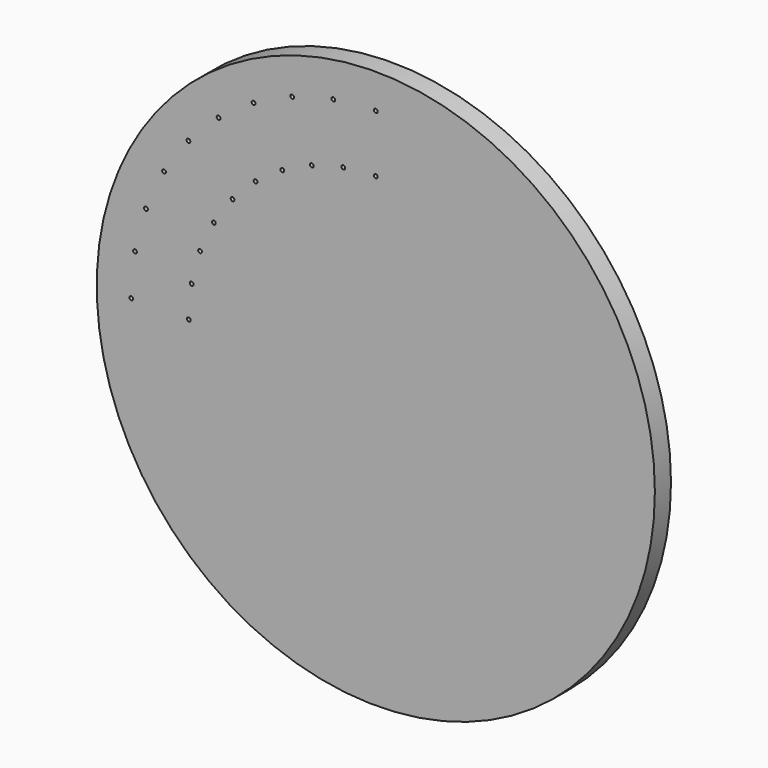
from build123d import *

# Parameters (mm, degrees)
F0_R     = 485
F1_DEPTH = 35
F2_D     = 6.6
F2_DEPTH = 19.75
F2_TIP   = 1.9828400428


with BuildPart() as f1:
    # F0 (on Front) → F1 (new body)
    with BuildSketch(Plane.XZ):
        Circle(F0_R)
    extrude(amount=-F1_DEPTH)

    # F2
    with Locations(Plane.XZ):
        with Locations((-325, 0), (-320.062519729, 56.4356577418), (-305.4001017554, 111.1565465808), (-281.4582562299, 162.5), (-248.9644440137, 208.9059731481), (-208.9059731481, 248.9644440137), (-162.5, 281.4582562299), (-111.1565465808, 305.4001017554), (-56.4356577418, 320.062519729), (0, 325), (0, 425), (-73.8004755084, 418.5432950302), (-145.3585609134, 399.369363834), (-212.5, 368.0607966084), (-273.1847341168, 325.5688883256), (-325.5688883256, 273.1847341168), (-368.0607966084, 212.5), (-399.369363834, 145.3585609134), (-418.5432950302, 73.8004755084), (-425, 0)):
            Hole(F2_D / 2, depth=F2_DEPTH)
            with Locations((0, 0, -(F2_DEPTH + F2_TIP / 2))):  # 118° drill point
                Cone(0, F2_D / 2, F2_TIP, mode=Mode.SUBTRACT)


solid = f1.part
